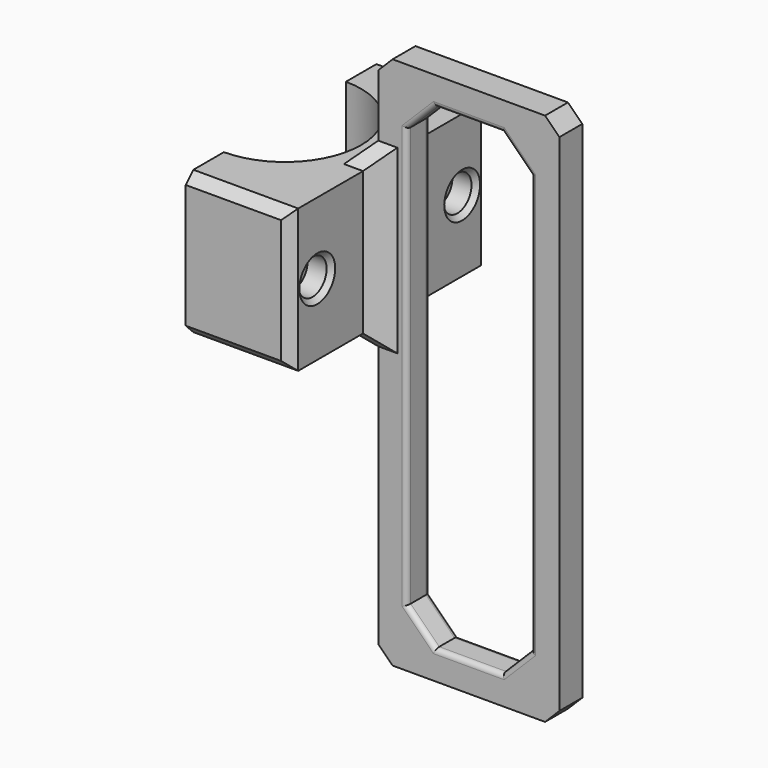
from build123d import *

# Parameters (mm, degrees)
CYLINDER003_R     = 3.7
CYLINDER003_DEPTH = 6
CYLINDER002_R     = 2.2
CYLINDER002_DEPTH = 70
CYLINDER_R        = 16
CYLINDER_DEPTH    = 100
BOX002_W          = 26
BOX002_H          = 6
BOX002_DEPTH      = 100
BOX001_W          = 38
BOX001_H          = 6
BOX001_DEPTH      = 112
CHAMFER_SIZE      = 3
CHAMFER001_SIZE   = 6
FILLET_R          = 1
FILLET001_R       = 1
FILLET002_R       = 1
BOX_W             = 22
BOX_H             = 52
BOX_DEPTH         = 30
CHAMFER002_SIZE   = 2
CHAMFER003_SIZE   = 4
CHAMFER004_SIZE   = 4
CHAMFER005_SIZE   = 4
CHAMFER006_SIZE   = 1


with BuildPart() as cylinder002:
    # Cylinder003 → Cylinder003 (new body)
    with BuildSketch(Plane(origin=(70, 0, 0), x_dir=(0, 0, -1), z_dir=(1, 0, 0))):
        Circle(CYLINDER003_R)
    extrude(amount=CYLINDER003_DEPTH)


with BuildPart() as obj1:
    # Cylinder002 → Cylinder002 (new body)
    with BuildSketch(Plane(origin=(0, 0, 0), x_dir=(0, 0, -1), z_dir=(1, 0, 0))):
        Circle(CYLINDER002_R)
    extrude(amount=CYLINDER002_DEPTH)

    # Fusion004: union Cylinder002
    add(cylinder002.part)


with BuildPart() as obj1_1:
    # Fusion004 placement: moved
    add(obj1.part.moved(Location((-53, -19, 15))))


with BuildPart() as tornillos:
    # Part__Mirroring: instance of obj1
    add(obj1_1.part.mirror(Plane(origin=(0, 0, 0), x_dir=(1, 0, 0), z_dir=(0, 1, 0))))

    # Fusion007: union obj1
    add(obj1_1.part)


with BuildPart() as obj2:
    # Cylinder → Cylinder (new body)
    with BuildSketch(Plane.XY):
        Circle(CYLINDER_R)
    extrude(amount=CYLINDER_DEPTH)


with BuildPart() as cube002:
    # Box002 → Box002 (new body)
    with BuildSketch(Plane(origin=(28, -3, -56), x_dir=(1, 0, 0), z_dir=(0, 0, 1))):
        with Locations((13, 3)):
            Rectangle(BOX002_W, BOX002_H)
    extrude(amount=BOX002_DEPTH)


with BuildPart() as fillet002:
    # Box001 → Box001 (new body)
    with BuildSketch(Plane(origin=(22, -3, -62), x_dir=(1, 0, 0), z_dir=(0, 0, 1))):
        with Locations((19, 3)):
            Rectangle(BOX001_W, BOX001_H)
    extrude(amount=BOX001_DEPTH)

    # Cut: cut Cube002
    add(cube002.part, mode=Mode.SUBTRACT)

    # Chamfer
    chamfer_edges = [fillet002.edges().sort_by_distance(p)[0] for p in [
        (22, 0, 50),
        (22, 0, -62),
        (60, 0, 50),
        (60, 0, -62),
    ]]
    chamfer(chamfer_edges, length=CHAMFER_SIZE)

    # Chamfer001
    chamfer001_edges = [fillet002.edges().sort_by_distance(p)[0] for p in [
        (54, 0, 44),
        (54, 0, -56),
        (28, 0, -56),
        (28, 0, 44),
    ]]
    chamfer(chamfer001_edges, length=CHAMFER001_SIZE)

    # Fillet
    fillet_edges = [fillet002.edges().sort_by_distance(p)[0] for p in [
        (54, -3, -6),
        (28, -3, -6),
        (54, 3, -6),
        (28, 3, -6),
    ]]
    fillet(fillet_edges, radius=FILLET_R)

    # Fillet001
    fillet001_edges = [fillet002.edges().sort_by_distance(p)[0] for p in [
        (41, -3, -56),
        (41, -3, 44),
        (41, 3, -56),
        (41, 3, 44),
    ]]
    fillet(fillet001_edges, radius=FILLET001_R)

    # Fillet002
    fillet002_edges = [fillet002.edges().sort_by_distance(p)[0] for p in [
        (31, -3, -53),
        (51, -3, -53),
        (31, -3, 41),
        (51, -3, 41),
        (31, 3, -53),
        (51, 3, -53),
        (31, 3, 41),
        (51, 3, 41),
    ]]
    fillet(fillet002_edges, radius=FILLET002_R)


with BuildPart() as obj3:
    # Box → Box (new body)
    with BuildSketch(Plane(origin=(0, -26, 0), x_dir=(1, 0, 0), z_dir=(0, 0, 1))):
        with Locations((11, 26)):
            Rectangle(BOX_W, BOX_H)
    extrude(amount=BOX_DEPTH)

    # Chamfer002
    chamfer002_edges = [obj3.edges().sort_by_distance(p)[0] for p in [
        (22, -26, 15),
        (22, 26, 15),
        (11, -26, 0),
        (11, -26, 30),
        (11, 26, 0),
        (11, 26, 30),
    ]]
    chamfer(chamfer002_edges, length=CHAMFER002_SIZE)

    # Fusion: union Fillet002
    add(fillet002.part)

    # Chamfer003
    chamfer003_edges = [obj3.edges().sort_by_distance(p)[0] for p in [
        (22, -3, 15),
        (22, 3, 15),
    ]]
    chamfer(chamfer003_edges, length=CHAMFER003_SIZE)

    # Chamfer004
    chamfer004_edges = [obj3.edges().sort_by_distance(p)[0] for p in [
        (22, 0, 0),
        (22, 0, 30),
    ]]
    chamfer(chamfer004_edges, length=CHAMFER004_SIZE)

    # Chamfer005
    chamfer005_edges = [obj3.edges().sort_by_distance(p)[0] for p in [
        (20, -3, 0),
        (24, -3, 0),
        (20, 3, 0),
        (24, 3, 0),
        (24, -3, 30),
        (20, -3, 30),
        (24, 3, 30),
        (20, 3, 30),
    ]]
    chamfer(chamfer005_edges, length=CHAMFER005_SIZE)

    # Cut001: cut obj2
    add(obj2.part, mode=Mode.SUBTRACT)

    # Cut002: cut tornillos
    add(tornillos.part, mode=Mode.SUBTRACT)

    # Chamfer006
    chamfer006_edges = [obj3.edges().sort_by_distance(p)[0] for p in [
        (22, -19, 18.7),
        (22, 19, 18.7),
    ]]
    chamfer(chamfer006_edges, length=CHAMFER006_SIZE)


solid = obj3.part
